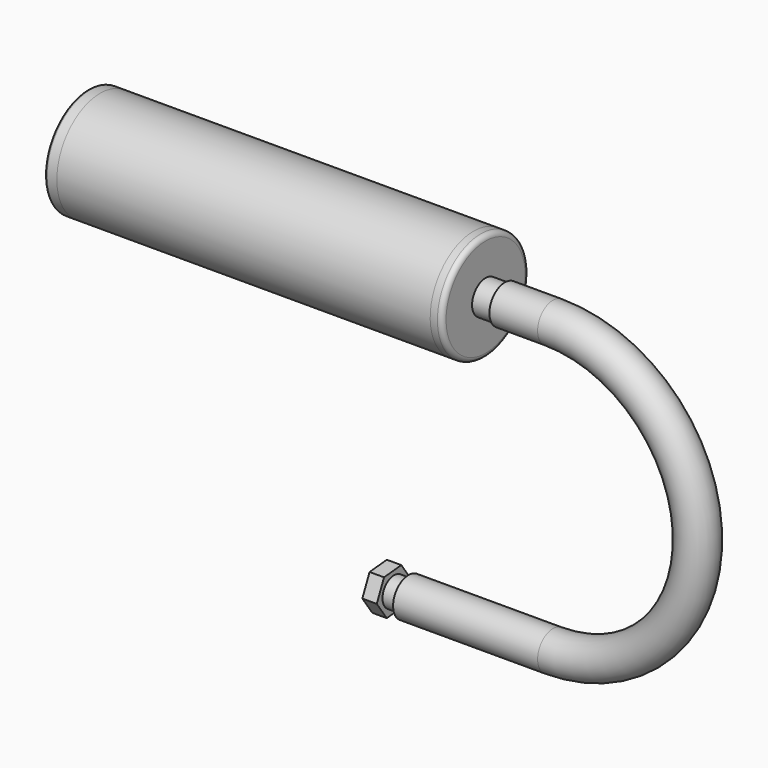
from build123d import *

# Parameters (mm, degrees)
F0_W      = 8
F0_H      = 2
F0_W_2    = 5
F3_R      = 2
F6_W      = 5
F6_H      = 18
F6_W_2    = 8
F6_H_2    = 2
F8_R      = 1
F5_R      = 8
F5_R_2    = 6
F10_R     = 6
F10_R_2   = 4.5
F11_DEPTH = 8
F13_R     = 9
F13_R_2   = 6
F14_DEPTH = 6
F15_R     = 7
F15_R_2   = 6
F16_DEPTH = 4
F18_DEPTH = 6


with BuildPart() as f1:
    # F0 (on Front) → F1 (revolve)
    with BuildSketch(Plane.XZ):
        Polygon((0, 22.5), (0, 20), (150, 20), (155, 20), (155, 22.5), align=None)
    revolve(axis=Axis((77.5, 0, 0), (1, 0, 0)))


with BuildPart() as f2:
    # F0 (on Front) → F2 (revolve)
    with BuildSketch(Plane.XZ):
        Polygon((155, 18), (155, 5), (160, 5), (160, 7), (160, 22.5), (155, 22.5), (155, 20), align=None)
        with Locations((164, 6)):
            Rectangle(F0_W, F0_H)
        with Locations((152.5, 19)):
            Rectangle(F0_W_2, F0_H)
    revolve(axis=Axis((164, 0, 0), (-1, 0, 0)))

    # F3
    f3_edges = [f2.edges().sort_by_distance(p)[0] for p in [
        (160, 0, -22.5),
    ]]
    fillet(f3_edges, radius=F3_R)


with BuildPart() as f7:
    # F6 (on Front) → F7 (revolve)
    with BuildSketch(Plane.XZ):
        with Locations((-2.5, 9)):
            Rectangle(F6_W, F6_H)
        Polygon((-5, 18), (0, 18), (0, 20), (0, 22.5), (-5, 22.5), align=None)
        with Locations((4, 19)):
            Rectangle(F6_W_2, F6_H_2)
    revolve(axis=Axis((-2.5, 0, 0), (1, 0, 0)))

    # F8
    f8_edges = [f7.edges().sort_by_distance(p)[0] for p in [
        (-5, 0, -22.5),
    ]]
    fillet(f8_edges, radius=F8_R)


with BuildPart() as f9:
    # F9: sweep along a path in F4
    with BuildLine(Plane.XZ) as f9_path:
        Line((168, 0), (188, 0))
        ThreePointArc((188, 0), (248, -60), (188, -120))
        Line((188, -120), (128, -120))
    # F5 (on face) → F9 (sweep)
    with BuildSketch(Plane.YZ.offset(168)):
        Circle(F5_R)
        Circle(F5_R_2, mode=Mode.SUBTRACT)
    sweep(path=f9_path.line)


with BuildPart() as f11:
    # F10 (on face) → F11 (new body)
    with BuildSketch(Plane(origin=(128, 0, 0), x_dir=(0, -1, 0), z_dir=(-1, 0, 0))):
        with Locations((0, -120)):
            Circle(F10_R)
        with Locations((0, -120)):
            Circle(F10_R_2, mode=Mode.SUBTRACT)
    extrude(amount=F11_DEPTH)

    # F13 (on offset) → F14 (join)
    with BuildSketch(Plane(origin=(122, 0, 0), x_dir=(0, -1, 0), z_dir=(-1, 0, 0))):
        with Locations((0, -120)):
            Circle(F13_R)
        with Locations((0, -120)):
            Circle(F13_R_2, mode=Mode.SUBTRACT)
    extrude(amount=F14_DEPTH)

    # F15 (on face) → F16 (cut)
    with BuildSketch(Plane(origin=(116, 0, 0), x_dir=(0, -1, 0), z_dir=(-1, 0, 0))):
        with Locations((0, -120)):
            Circle(F15_R)
        with Locations((0, -120)):
            Circle(F15_R_2, mode=Mode.SUBTRACT)
    extrude(amount=-F16_DEPTH, mode=Mode.SUBTRACT)

    # F17 (on face) → F18 (cut)
    with BuildSketch(Plane.YZ.offset(122)):
        with BuildLine():
            Line((5.2011715189, -127.3449176191), (-3.7602994874, -128.1768054743))
            ThreePointArc((-3.7602994874, -128.1768054743), (0.8318878553, -128.9614710063), (5.2011715189, -127.3449176191))
        make_face()
        with BuildLine():
            Line((8.9614710063, -119.1681121447), (5.2011715189, -127.3449176191))
            ThreePointArc((5.2011715189, -127.3449176191), (7.9940772973, -124.1345771446), (9, -120))
            ThreePointArc((9, -120), (8.9903625916, -119.5836101925), (8.9614710063, -119.1681121447))
        make_face()
        with BuildLine():
            ThreePointArc((8.9614710063, -119.1681121447), (7.3449176191, -114.7988284811), (3.7602994874, -111.8231945257))
            Line((3.7602994874, -111.8231945257), (8.9614710063, -119.1681121447))
        make_face()
        with BuildLine():
            ThreePointArc((3.7602994874, -111.8231945257), (-0.8318878553, -111.0385289937), (-5.2011715189, -112.6550823809))
            Line((-5.2011715189, -112.6550823809), (3.7602994874, -111.8231945257))
        make_face()
        with BuildLine():
            ThreePointArc((-5.2011715189, -112.6550823809), (-8.1768054743, -116.2397005126), (-8.9614710063, -120.8318878553))
            Line((-8.9614710063, -120.8318878553), (-5.2011715189, -112.6550823809))
        make_face()
        with BuildLine():
            Line((-3.7602994874, -128.1768054743), (-8.9614710063, -120.8318878553))
            ThreePointArc((-8.9614710063, -120.8318878553), (-7.3449176191, -125.2011715189), (-3.7602994874, -128.1768054743))
        make_face()
    extrude(amount=-F18_DEPTH, mode=Mode.SUBTRACT)


solid = Compound([f1.part, f2.part, f7.part, f9.part, f11.part])
